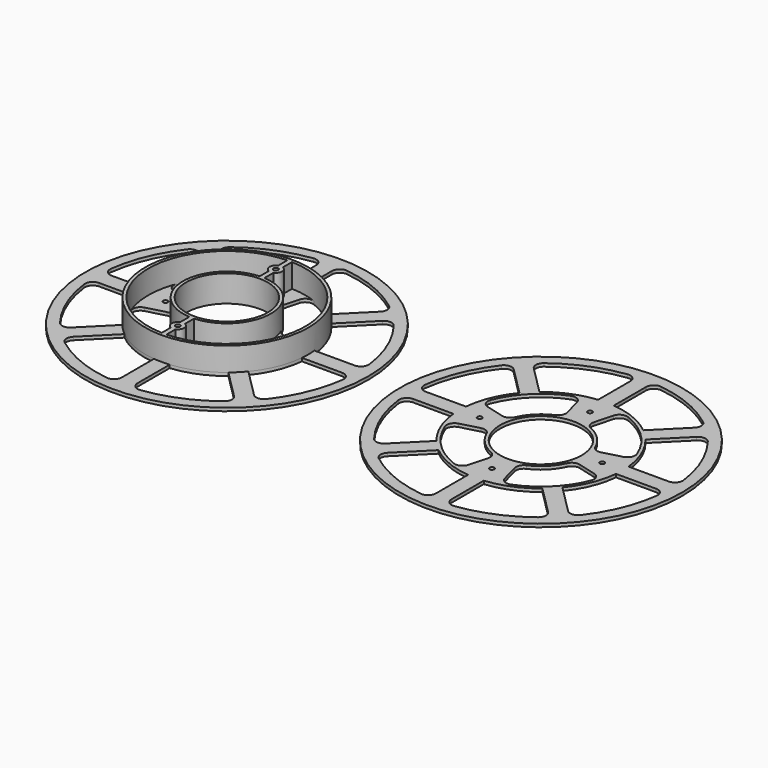
from build123d import *

# Parameters (mm, degrees)
F0_R     = 90
F0_R_2   = 1.5
F0_R_3   = 26
F2_DEPTH = 2
F1_R     = 52
F1_R_2   = 1.5
F1_R_3   = 26
F4_DEPTH = 17


with BuildPart() as f2:
    # F0 (on Top) → F2 (new body)
    with BuildSketch(Plane.XY):
        Circle(F0_R)
        with BuildLine():
            ThreePointArc((-50.681193456, -65.7298762351), (-52.6177834402, -62.0914212547), (-51.1636434188, -58.2347112306))
            Line((-51.1636434188, -58.2347112306), (-33.0636464128, -40.1347142246))
            ThreePointArc((-33.0636464128, -40.1347142246), (-19.899538483, -48.0417356906), (-5, -51.7590571784))
            Line((-5, -51.7590571784), (-5, -77.3563184233))
            ThreePointArc((-5, -77.3563184233), (-6.6988735411, -81.1116565042), (-10.641025641, -82.3150567837))
            ThreePointArc((-10.641025641, -82.3150567837), (-31.7627248863, -76.6820011984), (-50.681193456, -65.7298762351))
        make_face(mode=Mode.SUBTRACT)
        with BuildLine():
            ThreePointArc((-82.3150567837, -10.641025641), (-81.1116565042, -6.6988735411), (-77.3563184233, -5))
            Line((-77.3563184233, -5), (-51.7590571784, -5))
            ThreePointArc((-51.7590571784, -5), (-48.0417356906, -19.899538483), (-40.1347142246, -33.0636464128))
            Line((-40.1347142246, -33.0636464128), (-58.2347112306, -51.1636434188))
            ThreePointArc((-58.2347112306, -51.1636434188), (-62.0914212547, -52.6177834402), (-65.7298762351, -50.681193456))
            ThreePointArc((-65.7298762351, -50.681193456), (-76.6820011984, -31.7627248863), (-82.3150567837, -10.641025641))
        make_face(mode=Mode.SUBTRACT)
        with BuildLine():
            Line((-43.1975161761, -11.5747395744), (-31.5075469501, -8.4424217608))
            ThreePointArc((-31.5075469501, -8.4424217608), (-28.0496686886, -8.7644969022), (-25.6356560087, -11.2611340904))
            ThreePointArc((-25.6356560087, -11.2611340904), (-19.7989898732, -19.7989898732), (-11.2611340904, -25.6356560087))
            ThreePointArc((-11.2611340904, -25.6356560087), (-8.7644969022, -28.0496686886), (-8.4424217608, -31.5075469501))
            Line((-8.4424217608, -31.5075469501), (-11.5747395744, -43.1975161761))
            ThreePointArc((-11.5747395744, -43.1975161761), (-14.1491775828, -46.3659441156), (-18.2270763398, -46.5593566118))
            ThreePointArc((-18.2270763398, -46.5593566118), (-35.3553390593, -35.3553390593), (-46.5593566118, -18.2270763398))
            ThreePointArc((-46.5593566118, -18.2270763398), (-46.3659441156, -14.1491775828), (-43.1975161761, -11.5747395744))
        make_face(mode=Mode.SUBTRACT)
        with Locations((-39, -1.5e-08)):
            Circle(F0_R_2, mode=Mode.SUBTRACT)
        with BuildLine():
            ThreePointArc((10.641025641, -82.3150567837), (6.6988735411, -81.1116565042), (5, -77.3563184233))
            Line((5, -77.3563184233), (5, -51.7590571784))
            ThreePointArc((5, -51.7590571784), (19.899538483, -48.0417356906), (33.0636464128, -40.1347142246))
            Line((33.0636464128, -40.1347142246), (51.1636434188, -58.2347112306))
            ThreePointArc((51.1636434188, -58.2347112306), (52.6177834402, -62.0914212547), (50.681193456, -65.7298762351))
            ThreePointArc((50.681193456, -65.7298762351), (31.7627248863, -76.6820011984), (10.641025641, -82.3150567837))
        make_face(mode=Mode.SUBTRACT)
        with Locations((1e-08, -39)):
            Circle(F0_R_2, mode=Mode.SUBTRACT)
        with BuildLine():
            Line((11.5747395744, -43.1975161761), (8.4424217608, -31.5075469501))
            ThreePointArc((8.4424217608, -31.5075469501), (8.7644969022, -28.0496686886), (11.2611340904, -25.6356560087))
            ThreePointArc((11.2611340904, -25.6356560087), (19.7989898732, -19.7989898732), (25.6356560087, -11.2611340904))
            ThreePointArc((25.6356560087, -11.2611340904), (28.0496686886, -8.7644969022), (31.5075469501, -8.4424217608))
            Line((31.5075469501, -8.4424217608), (43.1975161761, -11.5747395744))
            ThreePointArc((43.1975161761, -11.5747395744), (46.3659441156, -14.1491775828), (46.5593566118, -18.2270763398))
            ThreePointArc((46.5593566118, -18.2270763398), (35.3553390593, -35.3553390593), (18.2270763398, -46.5593566118))
            ThreePointArc((18.2270763398, -46.5593566118), (14.1491775828, -46.3659441156), (11.5747395744, -43.1975161761))
        make_face(mode=Mode.SUBTRACT)
        with BuildLine():
            ThreePointArc((65.7298762351, -50.681193456), (62.0914212547, -52.6177834402), (58.2347112306, -51.1636434188))
            Line((58.2347112306, -51.1636434188), (40.1347142246, -33.0636464128))
            ThreePointArc((40.1347142246, -33.0636464128), (48.0417356906, -19.899538483), (51.7590571784, -5))
            Line((51.7590571784, -5), (77.3563184233, -5))
            ThreePointArc((77.3563184233, -5), (81.1116565042, -6.6988735411), (82.3150567837, -10.641025641))
            ThreePointArc((82.3150567837, -10.641025641), (76.6820011984, -31.7627248863), (65.7298762351, -50.681193456))
        make_face(mode=Mode.SUBTRACT)
        with BuildLine():
            ThreePointArc((-65.7298762351, 50.681193456), (-62.0914212547, 52.6177834402), (-58.2347112306, 51.1636434188))
            Line((-58.2347112306, 51.1636434188), (-40.1347142246, 33.0636464128))
            ThreePointArc((-40.1347142246, 33.0636464128), (-48.0417356906, 19.899538483), (-51.7590571784, 5))
            Line((-51.7590571784, 5), (-77.3563184233, 5))
            ThreePointArc((-77.3563184233, 5), (-81.1116565042, 6.6988735411), (-82.3150567837, 10.641025641))
            ThreePointArc((-82.3150567837, 10.641025641), (-76.6820011984, 31.7627248863), (-65.7298762351, 50.681193456))
        make_face(mode=Mode.SUBTRACT)
        with BuildLine():
            ThreePointArc((-8.4424217608, 31.5075469501), (-8.7644969022, 28.0496686886), (-11.2611340904, 25.6356560087))
            ThreePointArc((-11.2611340904, 25.6356560087), (-19.7989898732, 19.7989898732), (-25.6356560087, 11.2611340904))
            ThreePointArc((-25.6356560087, 11.2611340904), (-28.0496686886, 8.7644969022), (-31.5075469501, 8.4424217608))
            Line((-31.5075469501, 8.4424217608), (-43.1975161761, 11.5747395744))
            ThreePointArc((-43.1975161761, 11.5747395744), (-46.3659441156, 14.1491775828), (-46.5593566118, 18.2270763398))
            ThreePointArc((-46.5593566118, 18.2270763398), (-35.3553390593, 35.3553390593), (-18.2270763398, 46.5593566118))
            ThreePointArc((-18.2270763398, 46.5593566118), (-14.1491775828, 46.3659441156), (-11.5747395744, 43.1975161761))
            Line((-11.5747395744, 43.1975161761), (-8.4424217608, 31.5075469501))
        make_face(mode=Mode.SUBTRACT)
        with BuildLine():
            ThreePointArc((-10.641025641, 82.3150567837), (-6.6988735411, 81.1116565042), (-5, 77.3563184233))
            Line((-5, 77.3563184233), (-5, 51.7590571784))
            ThreePointArc((-5, 51.7590571784), (-19.899538483, 48.0417356906), (-33.0636464128, 40.1347142246))
            Line((-33.0636464128, 40.1347142246), (-51.1636434188, 58.2347112306))
            ThreePointArc((-51.1636434188, 58.2347112306), (-52.6177834402, 62.0914212547), (-50.681193456, 65.7298762351))
            ThreePointArc((-50.681193456, 65.7298762351), (-31.7627248863, 76.6820011984), (-10.641025641, 82.3150567837))
        make_face(mode=Mode.SUBTRACT)
        Circle(F0_R_3, mode=Mode.SUBTRACT)
        with Locations((39, 5e-09)):
            Circle(F0_R_2, mode=Mode.SUBTRACT)
        with Locations((0, 39)):
            Circle(F0_R_2, mode=Mode.SUBTRACT)
        with BuildLine():
            Line((43.1975161761, 11.5747395744), (31.5075469501, 8.4424217608))
            ThreePointArc((31.5075469501, 8.4424217608), (28.0496686886, 8.7644969022), (25.6356560087, 11.2611340904))
            ThreePointArc((25.6356560087, 11.2611340904), (19.7989898732, 19.7989898732), (11.2611340904, 25.6356560087))
            ThreePointArc((11.2611340904, 25.6356560087), (8.7644969022, 28.0496686886), (8.4424217608, 31.5075469501))
            Line((8.4424217608, 31.5075469501), (11.5747395744, 43.1975161761))
            ThreePointArc((11.5747395744, 43.1975161761), (14.1491775828, 46.3659441156), (18.2270763398, 46.5593566118))
            ThreePointArc((18.2270763398, 46.5593566118), (35.3553390593, 35.3553390593), (46.5593566118, 18.2270763398))
            ThreePointArc((46.5593566118, 18.2270763398), (46.3659441156, 14.1491775828), (43.1975161761, 11.5747395744))
        make_face(mode=Mode.SUBTRACT)
        with BuildLine():
            Line((77.3563184233, 5), (51.7590571784, 5))
            ThreePointArc((51.7590571784, 5), (48.0417356906, 19.899538483), (40.1347142246, 33.0636464128))
            Line((40.1347142246, 33.0636464128), (58.2347112306, 51.1636434188))
            ThreePointArc((58.2347112306, 51.1636434188), (62.0914212547, 52.6177834402), (65.7298762351, 50.681193456))
            ThreePointArc((65.7298762351, 50.681193456), (76.6820011984, 31.7627248863), (82.3150567837, 10.641025641))
            ThreePointArc((82.3150567837, 10.641025641), (81.1116565042, 6.6988735411), (77.3563184233, 5))
        make_face(mode=Mode.SUBTRACT)
        with BuildLine():
            Line((5, 51.7590571784), (5, 77.3563184233))
            ThreePointArc((5, 77.3563184233), (6.6988735411, 81.1116565042), (10.641025641, 82.3150567837))
            ThreePointArc((10.641025641, 82.3150567837), (31.7627248863, 76.6820011984), (50.681193456, 65.7298762351))
            ThreePointArc((50.681193456, 65.7298762351), (52.6177834402, 62.0914212547), (51.1636434188, 58.2347112306))
            Line((51.1636434188, 58.2347112306), (33.0636464128, 40.1347142246))
            ThreePointArc((33.0636464128, 40.1347142246), (19.899538483, 48.0417356906), (5, 51.7590571784))
        make_face(mode=Mode.SUBTRACT)
    extrude(amount=F2_DEPTH)


with BuildPart() as f3_1:
    # F3: copy of F2
    add(f2.part.moved(Location((200, 0, 0))))


with BuildPart() as f2_1:
    add(f2.part)

    # F1 (on Top) → F4 (join)
    with BuildSketch(Plane.XY):
        Circle(F1_R)
        with Locations((0, -39)):
            Circle(F1_R_2, mode=Mode.SUBTRACT)
        with BuildLine():
            Line((-1.5, 35.2919007565), (-1.5, 27.95979256))
            ThreePointArc((-1.5, 27.95979256), (-28, 0), (-1.5, -27.95979256))
            Line((-1.5, -27.95979256), (-1.5, -35.2919007565))
            ThreePointArc((-1.5, -35.2919007565), (-4, -39), (-1.5, -42.7080992435))
            Line((-1.5, -42.7080992435), (-1.5, -49.9774949352))
            ThreePointArc((-1.5, -49.9774949352), (-50, 0), (-1.5, 49.9774949352))
            Line((-1.5, 49.9774949352), (-1.5, 42.7080992435))
            ThreePointArc((-1.5, 42.7080992435), (-4, 39), (-1.5, 35.2919007565))
        make_face(mode=Mode.SUBTRACT)
        Circle(F1_R_3, mode=Mode.SUBTRACT)
        with BuildLine():
            Line((1.5, 42.7080992435), (1.5, 49.9774949352))
            ThreePointArc((1.5, 49.9774949352), (50, 0), (1.5, -49.9774949352))
            Line((1.5, -49.9774949352), (1.5, -42.7080992435))
            ThreePointArc((1.5, -42.7080992435), (4, -39), (1.5, -35.2919007565))
            Line((1.5, -35.2919007565), (1.5, -27.95979256))
            ThreePointArc((1.5, -27.95979256), (28, 0), (1.5, 27.95979256))
            Line((1.5, 27.95979256), (1.5, 35.2919007565))
            ThreePointArc((1.5, 35.2919007565), (4, 39), (1.5, 42.7080992435))
        make_face(mode=Mode.SUBTRACT)
        with Locations((0, 39)):
            Circle(F1_R_2, mode=Mode.SUBTRACT)
    extrude(amount=F4_DEPTH)


solid = Compound([f3_1.part, f2_1.part])
